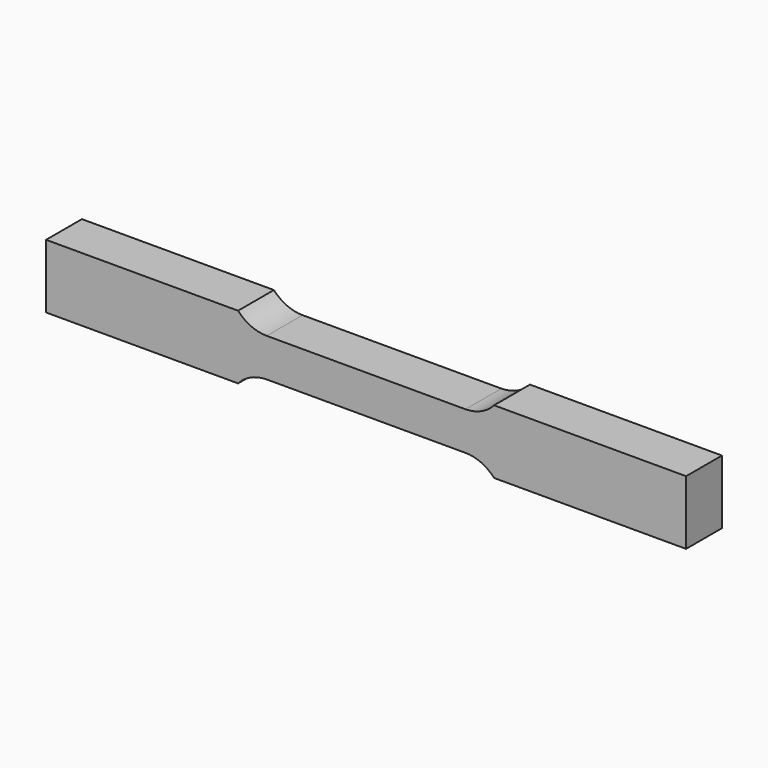
from build123d import *

# Parameters (mm, degrees)
F1_DEPTH = 7


with BuildPart() as f1:
    # F0 (on Front) → F1 (new body)
    with BuildSketch(Plane.XZ):
        with BuildLine():
            Line((15.527864, 3), (0, 3))
            Line((0, 3), (-15.527864, 3))
            ThreePointArc((-15.527864, 3), (-17.977354, 3.522774), (-20, 5))
            Line((-20, 5), (-50, 5))
            Line((-50, 5), (-50, 0))
            Line((-50, 0), (-50, -5))
            Line((-50, -5), (-20, -5))
            ThreePointArc((-20, -5), (-17.977354, -3.522774), (-15.527864, -3))
            Line((-15.527864, -3), (0, -3))
            Line((0, -3), (15.527864, -3))
            ThreePointArc((15.527864, -3), (17.977354, -3.522774), (20, -5))
            Line((20, -5), (50, -5))
            Line((50, -5), (50, 0))
            Line((50, 0), (50, 5))
            Line((50, 5), (20, 5))
            ThreePointArc((20, 5), (17.977354, 3.522774), (15.527864, 3))
        make_face()
    extrude(amount=F1_DEPTH)


solid = f1.part
